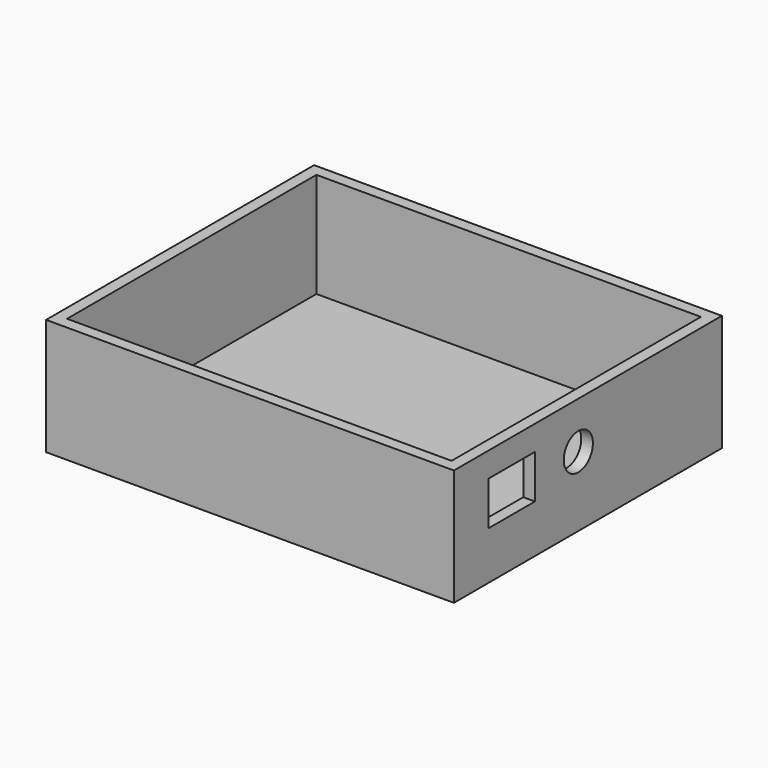
from build123d import *

# Parameters (mm, degrees)
F0_W     = 88.9
F0_H     = 73.025
F1_DEPTH = 25.4
F2_T     = -2.54
F3_W     = 12.7
F3_H     = 9.525
F3_R     = 3.96875
F4_DEPTH = 2.54


with BuildPart() as f1:
    # F0 (on Top) → F1 (new body)
    with BuildSketch(Plane.XY):
        with Locations((44.45, 36.5125)):
            Rectangle(F0_W, F0_H)
    extrude(amount=F1_DEPTH)

    # F2
    f2_openings = [f1.faces().sort_by_distance(p)[0] for p in [
        (44.45, 36.5125, 25.4),
    ]]
    offset(amount=F2_T, openings=f2_openings)

    # F3 (on face) → F4 (cut)
    with BuildSketch(Plane.YZ.offset(88.9)):
        with Locations((15.723732, 15.242798)):
            Rectangle(F3_W, F3_H)
        with Locations((33.899404, 15.242798)):
            Circle(F3_R)
    extrude(amount=-F4_DEPTH, mode=Mode.SUBTRACT)


solid = f1.part
